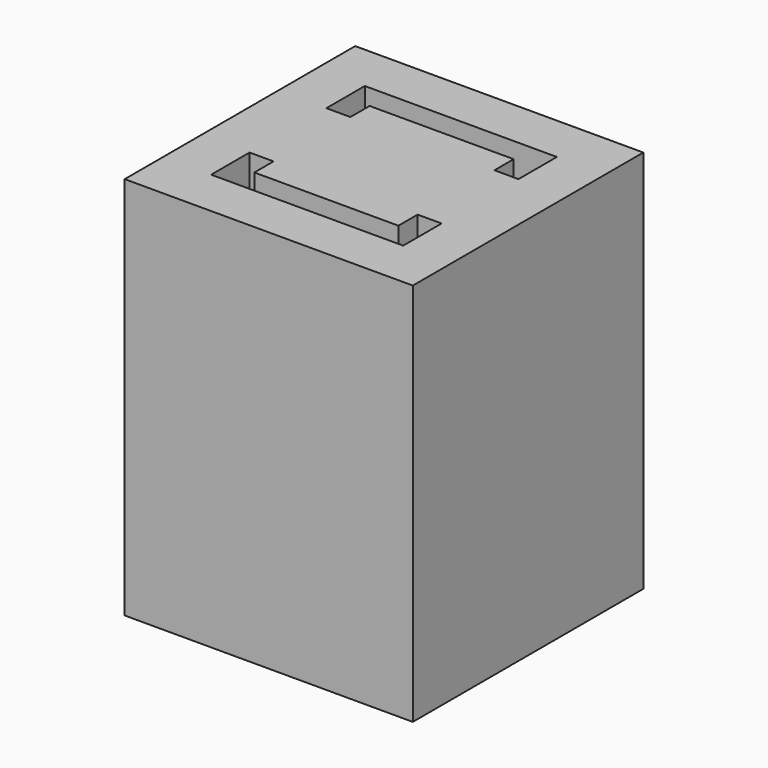
from build123d import *

# Parameters (mm, degrees)
F0_W     = 30
F0_H     = 30
F0_W_2   = 15
F0_H_2   = 10
F0_H_3   = 2.5
F0_W_3   = 2.5
F1_DEPTH = 40
F2_DEPTH = 5
F3_DEPTH = 40


with BuildPart() as f1:
    # F0 (on Top) → F1 (new body)
    with BuildSketch(Plane.XY):
        Rectangle(F0_W, F0_H)
        Polygon((10, 5), (10, -5), (10, -10), (-10, -10), (-10, -5), (-10, 5), (-10, 10), (10, 10), align=None, mode=Mode.SUBTRACT)
        Rectangle(F0_W_2, F0_H_2)
        Polygon((7.5, 7.5), (7.5, 5), (10, 5), (10, 10), (-10, 10), (-10, 5), (-7.5, 5), (-7.5, 7.5), align=None)
        Polygon((7.5, -5), (7.5, -7.5), (-7.5, -7.5), (-7.5, -5), (-10, -5), (-10, -10), (10, -10), (10, -5), align=None)
        with Locations((0, 6.25)):
            Rectangle(F0_W_2, F0_H_3)
        with Locations((0, -6.25)):
            Rectangle(F0_W_2, F0_H_3)
        with Locations((8.75, 0)):
            Rectangle(F0_W_3, F0_H_2)
        with Locations((-8.75, 0)):
            Rectangle(F0_W_3, F0_H_2)
    extrude(amount=F1_DEPTH)

    # F0 (on Top) → F2 (cut)
    with BuildSketch(Plane.XY):
        with Locations((0, -6.25)):
            Rectangle(F0_W_2, F0_H_3)
        Rectangle(F0_W_2, F0_H_2)
        with Locations((0, 6.25)):
            Rectangle(F0_W_2, F0_H_3)
        with Locations((8.75, 0)):
            Rectangle(F0_W_3, F0_H_2)
        with Locations((-8.75, 0)):
            Rectangle(F0_W_3, F0_H_2)
    extrude(amount=F2_DEPTH, mode=Mode.SUBTRACT)

    # F0 (on Top) → F3 (cut)
    with BuildSketch(Plane.XY):
        Polygon((7.5, -5), (7.5, -7.5), (-7.5, -7.5), (-7.5, -5), (-10, -5), (-10, -10), (10, -10), (10, -5), align=None)
        Polygon((7.5, 7.5), (7.5, 5), (10, 5), (10, 10), (-10, 10), (-10, 5), (-7.5, 5), (-7.5, 7.5), align=None)
    extrude(amount=F3_DEPTH, mode=Mode.SUBTRACT)


solid = f1.part
